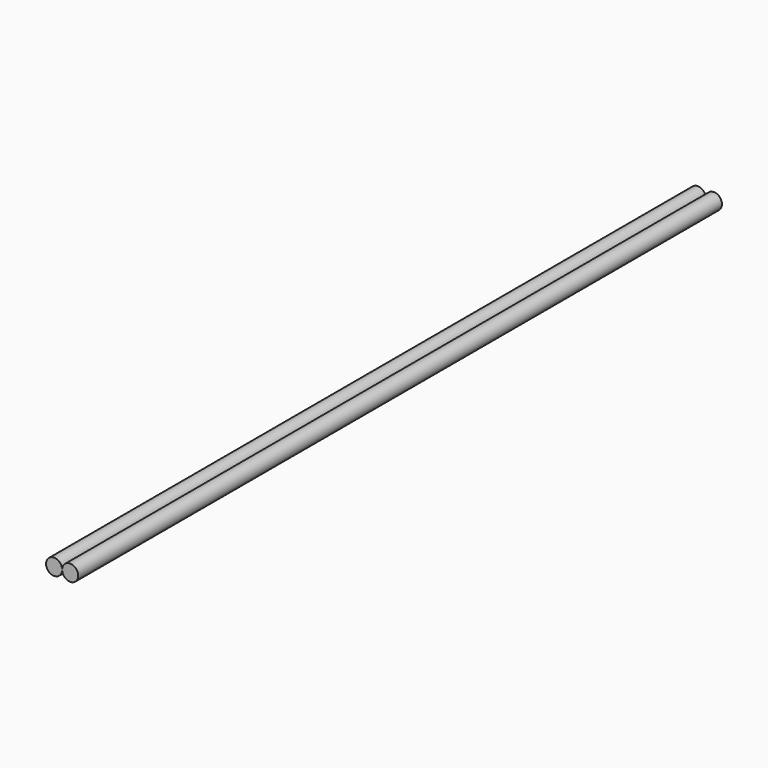
from build123d import *

# Parameters (mm, degrees)
F0_R     = 1
F1_DEPTH = 100


with BuildPart() as f1:
    # F0 (on Front) → F1 (new body)
    with BuildSketch(Plane.XZ):
        Circle(F0_R)
        with BuildLine():
            ThreePointArc((3, 0), (2, 1), (1, 0))
            ThreePointArc((1, 0), (2, -1), (3, 0))
        make_face()
    extrude(amount=-F1_DEPTH)


solid = f1.part
